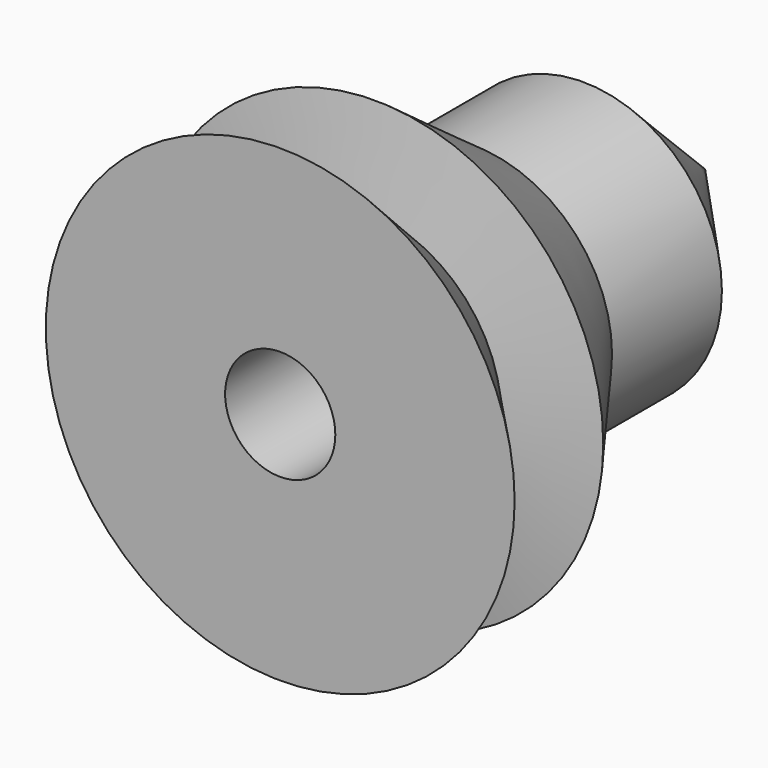
from build123d import *

# Parameters (mm, degrees)
F2_R     = 10.922
F3_DEPTH = 429.26


with BuildPart() as f1:
    # F0 (on Top) → F1 (revolve)
    with BuildSketch(Plane.XY):
        Polygon((0, -75.046971), (46.471976, -75.046971), (27.522236, -54.593291), (45.268815, -51.585395), (27.522236, -27.221449), (27.522236, 0), (0, 30.229341), align=None)
    revolve(axis=Axis((0, -22.408815, 0), (0, 1, 0)))

    # F2 (on Front) → F3 (cut)
    with BuildSketch(Plane.XZ):
        Circle(F2_R)
    extrude(amount=F3_DEPTH, mode=Mode.SUBTRACT)


solid = f1.part
